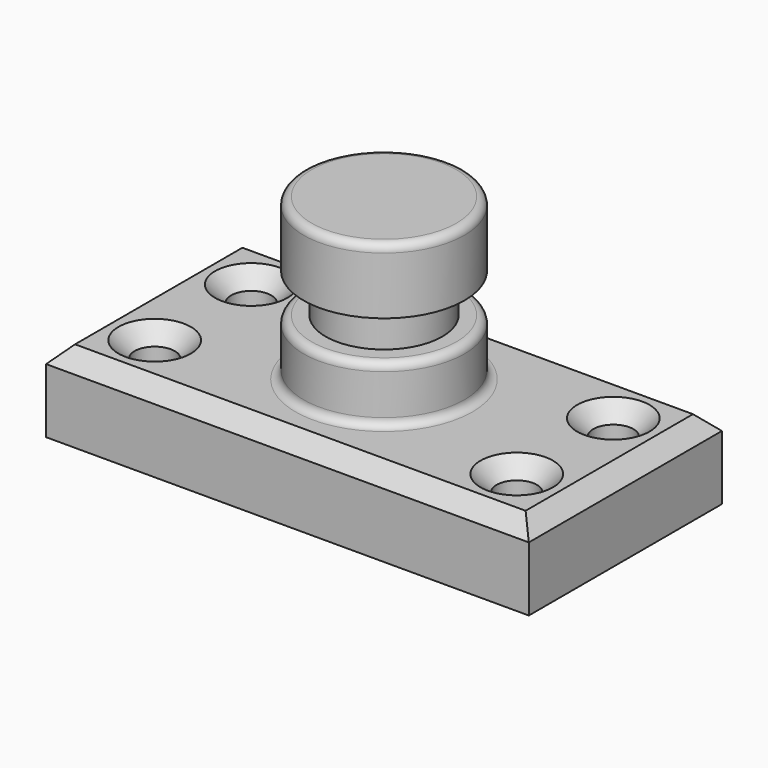
from build123d import *

# Parameters (mm, degrees)
F0_W     = 152.4
F0_H     = 76.2
F1_DEPTH = 25.4
F2_R     = 6.35
F3_DEPTH = 25.401
F4_SIZE  = 5.08
F5_W     = 25.4
F5_H     = 50.8
F7_W     = 10.3809926659
F7_H     = 12.2932828963
F9_R     = 2.54
F10_R    = 2.54


with BuildPart() as f1:
    # F0 (on Top) → F1 (new body)
    with BuildSketch(Plane.XY):
        Rectangle(F0_W, F0_H)
    extrude(amount=F1_DEPTH)

    # F2 (on Top) → F3 (cut, through all)
    with BuildSketch(Plane.XY):
        with Locations((-57.15, 19.05)):
            Circle(F2_R)
        with Locations((-57.15, -19.05)):
            Circle(F2_R)
        with Locations((57.15, -19.05)):
            Circle(F2_R)
        with Locations((57.15, 19.05)):
            Circle(F2_R)
    extrude(amount=F3_DEPTH, mode=Mode.SUBTRACT)

    # F4
    f4_edges = [f1.edges().sort_by_distance(p)[0] for p in [
        (0, 38.1, 25.4),
        (76.2, 0, 25.4),
        (-76.2, 0, 25.4),
        (0, -38.1, 25.4),
        (-63.5, -19.05, 25.4),
        (50.8, -19.05, 25.4),
        (-63.5, 19.05, 25.4),
        (50.8, 19.05, 25.4),
    ]]
    chamfer(f4_edges, length=F4_SIZE)

    # F5 (on Front) → F6 (revolve)
    with BuildSketch(Plane.XZ):
        with Locations((12.7, 50.8)):
            Rectangle(F5_W, F5_H)
    revolve(axis=Axis((0, 0, 50.8), (0, 0, 1)))

    # F7 (on Front) → F8 (revolve, cut)
    with BuildSketch(Plane.XZ):
        with Locations((23.6047832295, 49.3830461055)):
            Rectangle(F7_W, F7_H)
    revolve(axis=Axis((0, 0, 25.4), (0, 0, 1)), mode=Mode.SUBTRACT)

    # F9
    f9_edges = [f1.edges().sort_by_distance(p)[0] for p in [
        (25.4, 0, 34.318202),
        (-25.4, 0, 43.236405),
        (-25.4, 0, 25.4),
    ]]
    fillet(f9_edges, radius=F9_R)

    # F10
    f10_edges = [f1.edges().sort_by_distance(p)[0] for p in [
        (-25.4, 0, 76.2),
    ]]
    fillet(f10_edges, radius=F10_R)


solid = f1.part
